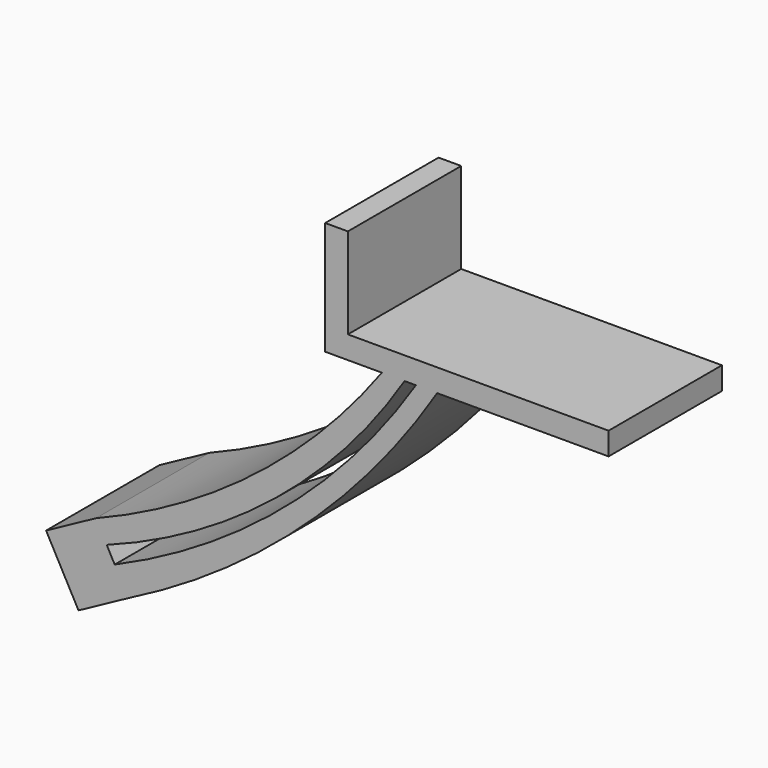
from build123d import *

# Parameters (mm, degrees)
F0_W     = 4
F0_H     = 4
F0_H_2   = 16
F1_DEPTH = 25


with BuildPart() as f1:
    # F0 (on Front) → F1 (new body)
    with BuildSketch(Plane.XZ):
        with Locations((2, 2)):
            Rectangle(F0_W, F0_H)
        Polygon((4, 4), (4, 0), (10, 0), (14, 0), (16, 0), (18.984493, 0), (19.760704, 0), (50, 0), (50, 4), align=None)
        with Locations((2, 12)):
            Rectangle(F0_W, F0_H_2)
        with BuildLine():
            Line((14, 0), (10, 0))
            ThreePointArc((10, 0), (-12.478907, -23.068258), (-40.461145, -39.019436))
            Line((-40.461145, -39.019436), (-38.553619, -42.535306))
            ThreePointArc((-38.553619, -42.535306), (-8.778265, -25.590208), (14, 0))
        make_face()
        Polygon((-38.553619, -42.535306), (-40.461145, -39.019436), (-49.250821, -43.788252), (-43.528242, -54.335862), (-34.738566, -49.567046), (-37.142825, -45.135621), align=None)
        with BuildLine():
            Line((18.984493, 0), (16, 0))
            ThreePointArc((16, 0), (-7.222493, -26.510838), (-37.142825, -45.135621))
            Line((-37.142825, -45.135621), (-34.738566, -49.567046))
            ThreePointArc((-34.738566, -49.567046), (-4.113623, -28.494695), (19.760704, 0))
            Line((19.760704, 0), (18.984493, 0))
        make_face()
    extrude(amount=F1_DEPTH)


solid = f1.part
